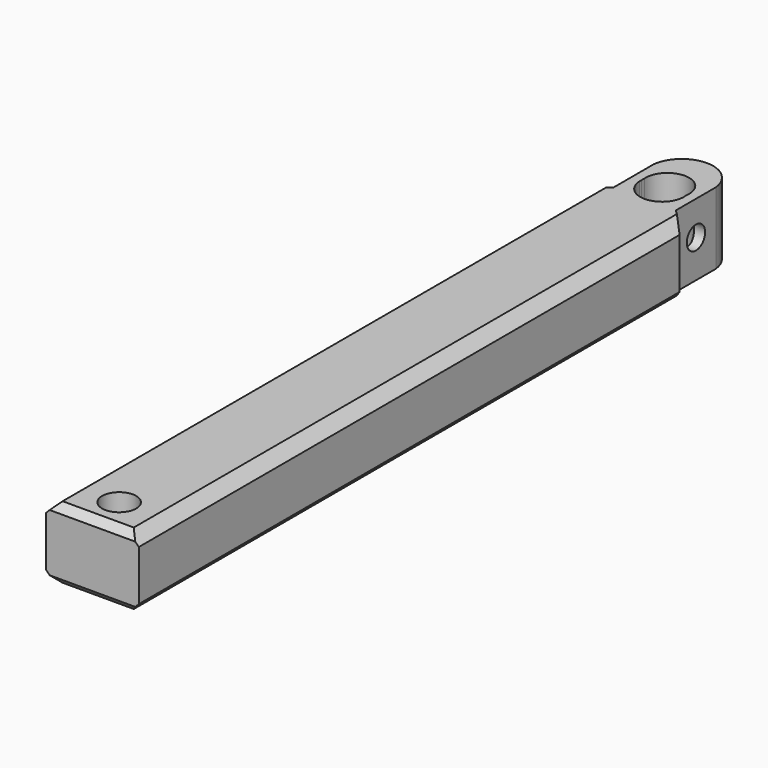
from build123d import *

# Parameters (mm, degrees)
F0_R     = 2.375
F1_DEPTH = 10
F2_R     = 1.6
F3_DEPTH = 25.4
F4_SIZE  = 1.5
F5_SIZE  = 1


with BuildPart() as f1:
    # F0 (on Top) → F1 (new body)
    with BuildSketch(Plane.XY):
        with BuildLine():
            ThreePointArc((4.334937, 51), (0, 54.847421), (-4.334937, 51))
            Line((-4.334937, 51), (-4.334937, 44))
            Line((-4.334937, 44), (-6.457987, 42.022876))
            Line((-6.457987, 42.022876), (-6.457987, -52.157663))
            Line((-6.457987, -52.157663), (0, -52.157663))
            Line((0, -52.157663), (6.457987, -52.157663))
            Line((6.457987, -52.157663), (6.457987, 42.022876))
            Line((6.457987, 42.022876), (4.334937, 44))
            Line((4.334937, 44), (4.334937, 51))
        make_face()
        with Locations((0, -47.5)):
            Circle(F0_R, mode=Mode.SUBTRACT)
        with BuildLine():
            ThreePointArc((3.021839, 48.254199), (3.035714, 47.964286), (3.021839, 47.674372))
            Line((3.021839, 47.674372), (3.021839, 47.325628))
            ThreePointArc((3.021839, 47.325628), (3.035714, 47.035714), (3.021839, 46.745801))
            ThreePointArc((3.021839, 46.745801), (-0.06736, 44.000747), (-3.031726, 46.880157))
            ThreePointArc((-3.031726, 46.880157), (-3.035701, 47.044547), (-3.03077, 47.208911))
            Line((-3.03077, 47.208911), (-3.029152, 47.76479))
            ThreePointArc((-3.029152, 47.76479), (-0.244732, 50.990119), (3.021839, 48.254199))
        make_face(mode=Mode.SUBTRACT)
    extrude(amount=F1_DEPTH)

    # F2 (on Right) → F3 (cut)
    with BuildSketch(Plane.YZ):
        with Locations((47.519322, 5.252215)):
            Circle(F2_R)
    extrude(amount=F3_DEPTH, mode=Mode.SUBTRACT)

    # F4
    f4_edges = [f1.edges().sort_by_distance(p)[0] for p in [
        (6.457987, -5.067393, 10),
        (-6.457987, -5.067393, 10),
        (6.457987, -5.067393, 0),
        (-6.457987, -5.067393, 0),
    ]]
    chamfer(f4_edges, length=F4_SIZE)

    # F5
    f5_edges = [f1.edges().sort_by_distance(p)[0] for p in [
        (0, -52.157663, 0),
        (0, -52.157663, 10),
    ]]
    chamfer(f5_edges, length=F5_SIZE)


solid = f1.part
